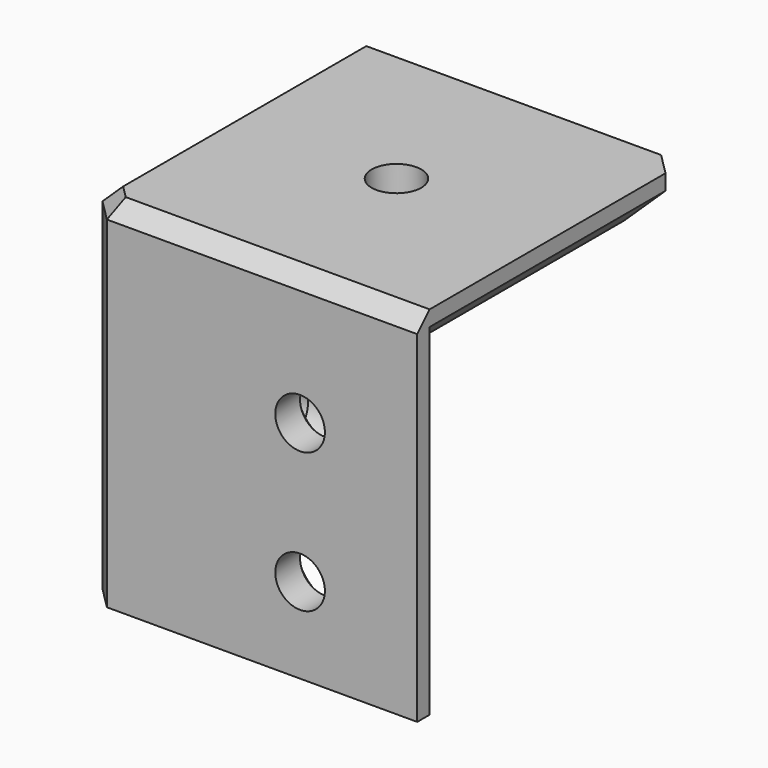
from build123d import *

# Parameters (mm, degrees)
PAD050_DEPTH    = 20
PAD051_DEPTH    = 3
CHAMFER035_SIZE = 2
CHAMFER036_SIZE = 1
SKETCH097_R     = 1.6
POCKET032_DEPTH = 5
CHAMFER037_SIZE = 1
SKETCH098_R     = 1.6
POCKET033_DEPTH = 3
CHAMFER038_SIZE = 1
SKETCH099_R     = 1.6
POCKET034_DEPTH = 3.001
CHAMFER039_SIZE = 1


with BuildPart() as part:
    # Sketch095 → Pad050 (new body)
    with BuildSketch(Plane.XY):
        Polygon((19.414214, 3), (8.313708, 3), (3, 8.313708), (3, 19.414214), (1, 21.414214), (0, 21.414214), (0, 1.414214), (1.414214, 0), (21.414214, 0), (21.414214, 1), align=None)
    extrude(amount=-PAD050_DEPTH)

    # Sketch096 → Pad051 (join)
    with BuildSketch(Plane.XY):
        Polygon((0, 21.414214), (20, 21.414214), (21.414214, 20), (21.414214, 0), (1.414214, 0), (0, 1.414214), align=None)
    extrude(amount=PAD051_DEPTH)

    # Chamfer035
    chamfer035_edges = [part.edges().sort_by_distance(p)[0] for p in [
        (21.414214, 10.5, 0),
        (20.707107, 20.707107, 0),
        (10.5, 21.414214, 0),
    ]]
    chamfer(chamfer035_edges, length=CHAMFER035_SIZE)

    # Chamfer036
    chamfer036_edges = [part.edges().sort_by_distance(p)[0] for p in [
        (0.707107, 0.707107, 3),
        (11.414214, 0, 3),
        (0, 11.414214, 3),
    ]]
    chamfer(chamfer036_edges, length=CHAMFER036_SIZE)

    # Sketch097 (on Face15 of Chamfer036) → Pocket032 (cut)
    with BuildSketch(Plane(origin=(0, 0, 0), x_dir=(1, 0, 0), z_dir=(0, 0, -1))):
        with Locations((11.207107, -11.085786)):
            Circle(SKETCH097_R)
    extrude(amount=-POCKET032_DEPTH, mode=Mode.SUBTRACT)

    # Chamfer037
    chamfer037_edges = [part.edges().sort_by_distance(p)[0] for p in [
        (9.607107, 11.085786, 0),
    ]]
    chamfer(chamfer037_edges, length=CHAMFER037_SIZE)

    # Sketch098 (on Face16 of Chamfer037) → Pocket033 (cut)
    with BuildSketch(Plane.YZ.offset(3)):
        with Locations((13.863961, -14.5)):
            Circle(SKETCH098_R)
        with Locations((13.863961, -5.5)):
            Circle(SKETCH098_R)
    extrude(amount=-POCKET033_DEPTH, mode=Mode.SUBTRACT)

    # Chamfer038
    chamfer038_edges = [part.edges().sort_by_distance(p)[0] for p in [
        (3, 12.263961, -14.5),
        (3, 12.263961, -5.5),
    ]]
    chamfer(chamfer038_edges, length=CHAMFER038_SIZE)

    # Sketch099 (on Face9 of Chamfer038) → Pocket034 (cut, through all)
    with BuildSketch(Plane(origin=(0, 3, 0), x_dir=(-1, 0, 0), z_dir=(0, 1, 0))):
        with Locations((-13.863961, -5.5)):
            Circle(SKETCH099_R)
        with Locations((-13.863961, -14.5)):
            Circle(SKETCH099_R)
    extrude(amount=-POCKET034_DEPTH, mode=Mode.SUBTRACT)

    # Chamfer039
    chamfer039_edges = [part.edges().sort_by_distance(p)[0] for p in [
        (15.463961, 3, -5.5),
        (15.463961, 3, -14.5),
    ]]
    chamfer(chamfer039_edges, length=CHAMFER039_SIZE)


with BuildPart() as part_1:
    # Body094 placement: moved
    add(part.part.moved(Location((0, 0, -18))))


solid = part_1.part
